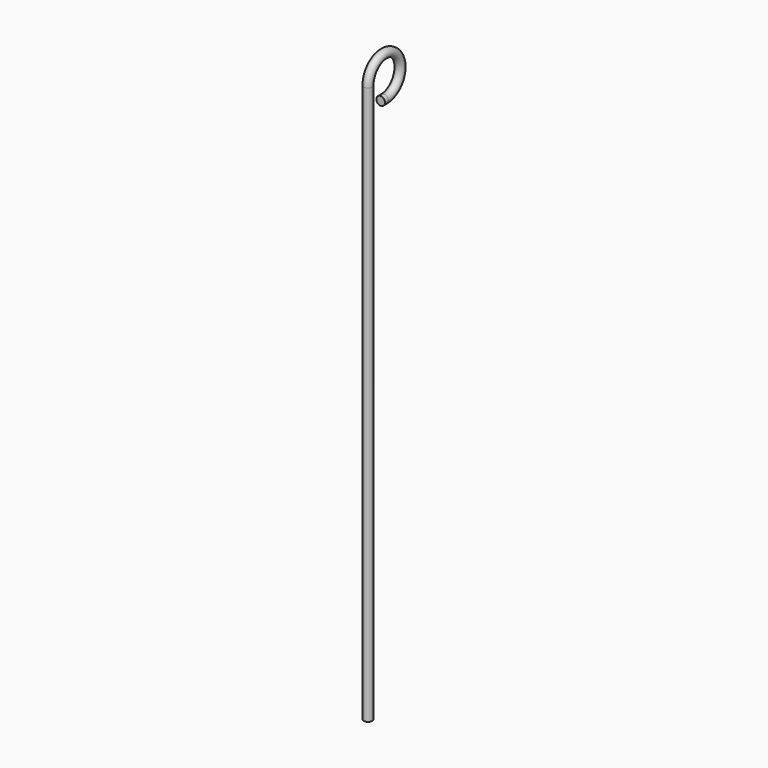
from build123d import *

# Parameters (mm, degrees)
F0_R     = 0.155
F1_DEPTH = 20
F2_R     = 0.155
F3_ANGLE = 270
F4_R     = 0.155
F5_DEPTH = 0.15


with BuildPart() as f1:
    # F0 (on Top) → F1 (new body)
    with BuildSketch(Plane.XY):
        Circle(F0_R)
    extrude(amount=F1_DEPTH)

    # F2 (on face) → F3 (revolve)
    with BuildSketch(Plane.XY.offset(20)):
        Circle(F2_R)
    revolve(axis=Axis((0.0432368064, 0.718167399, 20), (-1, 0, 0)), revolution_arc=F3_ANGLE)

    # F4 (on face) → F5 (join)
    with BuildSketch(Plane.XZ.offset(-0.718167399)):
        with Locations((0, 19.281832601)):
            Circle(F4_R)
    extrude(amount=F5_DEPTH)


solid = f1.part
